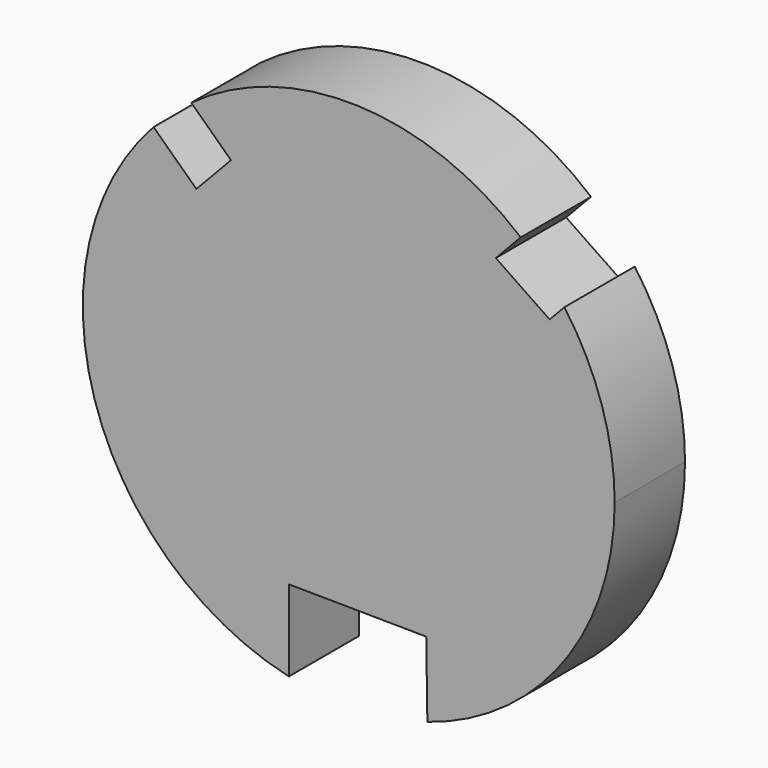
from build123d import *

# Parameters (mm, degrees)
F1_DEPTH = 25.4


with BuildPart() as f1:
    # F0 (on Front) → F1 (new body)
    with BuildSketch(Plane.XZ):
        with BuildLine():
            ThreePointArc((22.711633, -73.38135), (61.827377, -45.585263), (76.815629, 0))
            ThreePointArc((76.815629, 0), (73.09425, 23.619301), (62.290684, 44.9501))
            Line((62.290684, 44.9501), (58.02763, 40.450208))
            Line((58.02763, 40.450208), (42.485438, 51.013721))
            Line((42.485438, 51.013721), (49.669433, 58.596828))
            ThreePointArc((49.669433, 58.596828), (2.661841, 76.769495), (-45.491553, 61.89636))
            Line((-45.491553, 61.89636), (-34.00432, 51.013721))
            Line((-34.00432, 51.013721), (-44.011857, 40.450208))
            Line((-44.011857, 40.450208), (-56.38236, 52.16963))
            ThreePointArc((-56.38236, 52.16963), (-73.418391, -22.591608), (-17.29946, -74.842297))
            Line((-17.29946, -74.842297), (-17.29946, -51.389571))
            Line((-17.29946, -51.389571), (22.387235, -51.801081))
            Line((22.387235, -51.801081), (22.711633, -73.38135))
        make_face()
    extrude(amount=F1_DEPTH)


solid = f1.part
